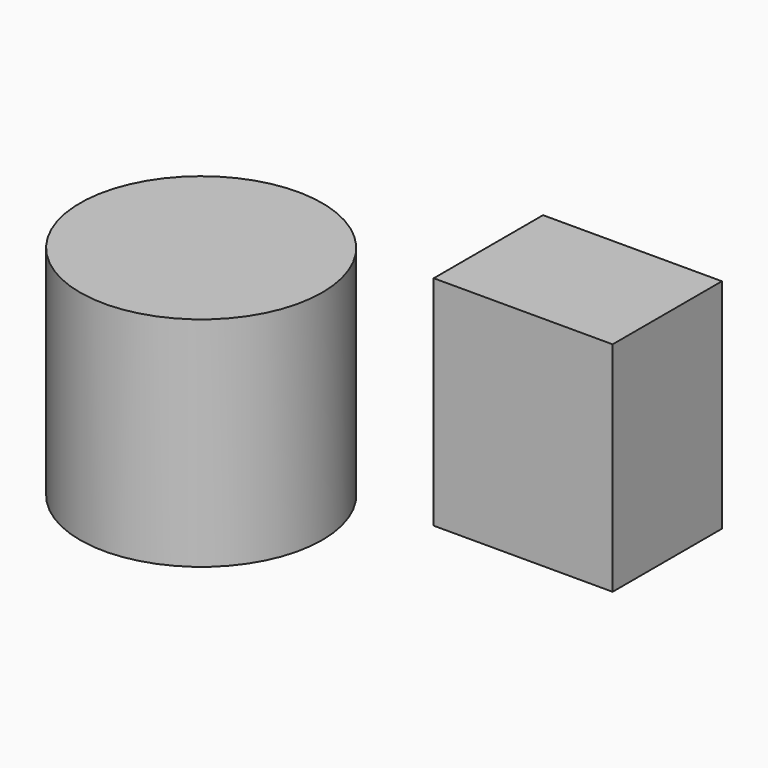
from build123d import *

# Parameters (mm, degrees)
F0_W     = 20.527252
F0_H     = 15.675356
F1_DEPTH = 25
F2_R     = 13.897559
F3_DEPTH = 25


with BuildPart() as f1:
    # F0 (on Top) → F1 (new body)
    with BuildSketch(Plane.XY):
        Rectangle(F0_W, F0_H)
    extrude(amount=F1_DEPTH)


with BuildPart() as f3:
    # F2 (on Top) → F3 (new body)
    with BuildSketch(Plane.XY):
        with Locations((-30.223787, -16.243508)):
            Circle(F2_R)
    extrude(amount=F3_DEPTH)


solid = Compound([f1.part, f3.part])
